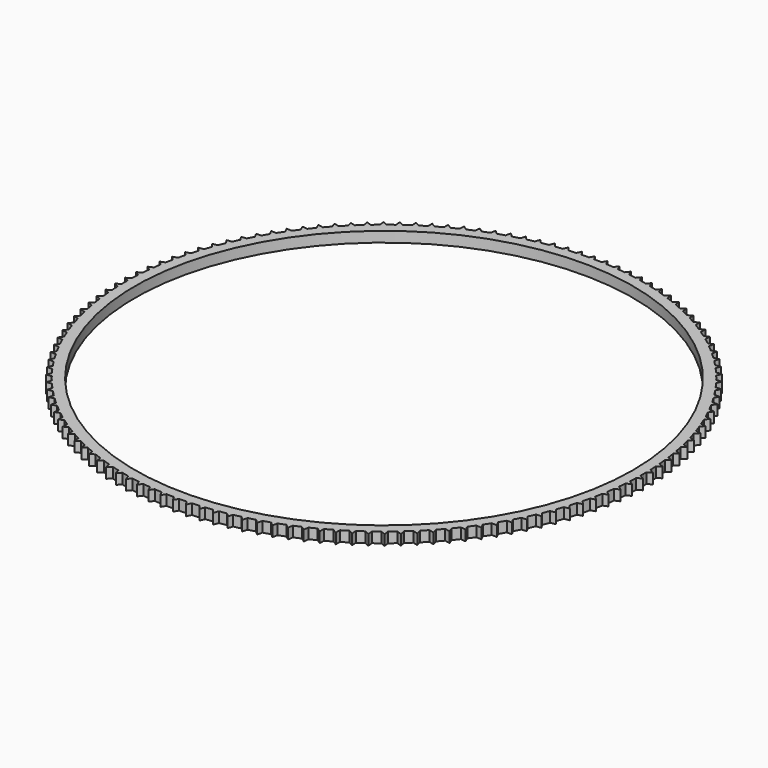
from build123d import *

# Parameters (mm, degrees)
F0_R     = 24
F1_DEPTH = 1


with BuildPart() as f1:
    # F0 (on Top) → F1 (new body)
    with BuildSketch(Plane.XY):
        with BuildLine():
            ThreePointArc((24.997492, -0.354136), (24.999373, -0.177073), (25, 0))
            ThreePointArc((25, 0), (24.999373, 0.177073), (24.997492, 0.354136))
            ThreePointArc((24.997492, 0.354136), (24.9927, 0.604094), (24.98541, 0.85399))
            ThreePointArc((24.98541, 0.85399), (24.970806, 1.207834), (24.951191, 1.561436))
            ThreePointArc((24.951191, 1.561436), (24.934329, 1.81087), (24.914973, 2.060123))
            ThreePointArc((24.914973, 2.060123), (24.883291, 2.412848), (24.846615, 2.765089))
            ThreePointArc((24.846615, 2.765089), (24.817722, 3.013417), (24.786347, 3.261444))
            ThreePointArc((24.786347, 3.261444), (24.73766, 3.612226), (24.684009, 3.962284))
            ThreePointArc((24.684009, 3.962284), (24.643152, 4.208926), (24.599831, 4.455147))
            ThreePointArc((24.599831, 4.455147), (24.534253, 4.803168), (24.463752, 5.150225))
            ThreePointArc((24.463752, 5.150225), (24.411027, 5.394605), (24.35586, 5.638445))
            ThreePointArc((24.35586, 5.638445), (24.273545, 5.982892), (24.18636, 6.326137))
            ThreePointArc((24.18636, 6.326137), (24.121889, 6.567684), (24.055006, 6.808575))
            ThreePointArc((24.055006, 6.808575), (23.956146, 7.148642), (23.852478, 7.487274))
            ThreePointArc((23.852478, 7.487274), (23.776413, 7.725425), (23.69797, 7.962803))
            ThreePointArc((23.69797, 7.962803), (23.582795, 8.297696), (23.462888, 8.630925))
            ThreePointArc((23.462888, 8.630925), (23.375406, 8.865122), (23.285586, 9.098433))
            ThreePointArc((23.285586, 9.098433), (23.154366, 9.427371), (23.0185, 9.754417))
            ThreePointArc((23.0185, 9.754417), (22.919805, 9.984115), (22.818818, 10.212813))
            ThreePointArc((22.818818, 10.212813), (22.671859, 10.535028), (22.520351, 10.855128))
            ThreePointArc((22.520351, 10.855128), (22.410673, 11.079789), (22.298755, 11.303341))
            ThreePointArc((22.298755, 11.303341), (22.136401, 11.618079), (21.969604, 11.930486))
            ThreePointArc((21.969604, 11.930486), (21.849201, 12.149585), (21.726612, 12.36747))
            ThreePointArc((21.726612, 12.36747), (21.549242, 12.673996), (21.367547, 12.97798))
            ThreePointArc((21.367547, 12.97798), (21.236698, 13.191006), (21.103726, 13.402714))
            ThreePointArc((21.103726, 13.402714), (20.911753, 13.700313), (20.715584, 13.995163))
            ThreePointArc((20.715584, 13.995163), (20.574597, 14.201619), (20.431552, 14.406655))
            ThreePointArc((20.431552, 14.406655), (20.225425, 14.694631), (20.015239, 14.979659))
            ThreePointArc((20.015239, 14.979659), (19.864442, 15.179063), (19.711658, 15.376948))
            ThreePointArc((19.711658, 15.376948), (19.491859, 15.65463), (19.268148, 15.92917))
            ThreePointArc((19.268148, 15.92917), (19.107893, 16.121055), (18.945727, 16.311328))
            ThreePointArc((18.945727, 16.311328), (18.712769, 16.578066), (18.476055, 16.841478))
            ThreePointArc((18.476055, 16.841478), (18.306717, 17.025396), (18.135547, 17.207612))
            ThreePointArc((18.135547, 17.207612), (17.889974, 17.462784), (17.640811, 17.714452))
            ThreePointArc((17.640811, 17.714452), (17.462784, 17.889974), (17.283011, 18.063707))
            ThreePointArc((17.283011, 18.063707), (17.025396, 18.306717), (16.764365, 18.546052))
            ThreePointArc((16.764365, 18.546052), (16.578066, 18.712769), (16.39011, 18.877614))
            ThreePointArc((16.39011, 18.877614), (16.121055, 19.107893), (15.848766, 19.334338))
            ThreePointArc((15.848766, 19.334338), (15.65463, 19.491859), (15.458929, 19.647431))
            ThreePointArc((15.458929, 19.647431), (15.179063, 19.864442), (14.896151, 20.077467))
            ThreePointArc((14.896151, 20.077467), (14.694631, 20.225425), (14.491642, 20.37136))
            ThreePointArc((14.491642, 20.37136), (14.201619, 20.574597), (13.908745, 20.773705))
            ThreePointArc((13.908745, 20.773705), (13.700313, 20.911753), (13.49051, 21.047711))
            ThreePointArc((13.49051, 21.047711), (13.191006, 21.236698), (12.888855, 21.421424))
            ThreePointArc((12.888855, 21.421424), (12.673996, 21.549242), (12.45787, 21.674904))
            ThreePointArc((12.45787, 21.674904), (12.149585, 21.849201), (11.838862, 22.019113))
            ThreePointArc((11.838862, 22.019113), (11.618079, 22.136401), (11.396134, 22.251475))
            ThreePointArc((11.396134, 22.251475), (11.079789, 22.410673), (10.76122, 22.565375))
            ThreePointArc((10.76122, 22.565375), (10.535028, 22.671859), (10.307782, 22.776076))
            ThreePointArc((10.307782, 22.776076), (9.984115, 22.919805), (9.658443, 23.058935))
            ThreePointArc((9.658443, 23.058935), (9.427371, 23.154366), (9.195356, 23.247482))
            ThreePointArc((9.195356, 23.247482), (8.865122, 23.375406), (8.533109, 23.498639))
            ThreePointArc((8.533109, 23.498639), (8.297696, 23.582795), (8.061453, 23.664593))
            ThreePointArc((8.061453, 23.664593), (7.725425, 23.776413), (7.387846, 23.883461))
            ThreePointArc((7.387846, 23.883461), (7.148642, 23.956146), (6.908723, 24.026434))
            ThreePointArc((6.908723, 24.026434), (6.567684, 24.121889), (6.225328, 24.212503))
            ThreePointArc((6.225328, 24.212503), (5.982892, 24.273545), (5.739857, 24.332161))
            ThreePointArc((5.739857, 24.332161), (5.394605, 24.411027), (5.04827, 24.484995))
            ThreePointArc((5.04827, 24.484995), (4.803168, 24.534253), (4.557585, 24.581058))
            ThreePointArc((4.557585, 24.581058), (4.208926, 24.643152), (3.859422, 24.700301))
            ThreePointArc((3.859422, 24.700301), (3.612226, 24.73766), (3.364669, 24.772545))
            ThreePointArc((3.364669, 24.772545), (3.013417, 24.817722), (2.66156, 24.857918))
            ThreePointArc((2.66156, 24.857918), (2.412848, 24.883291), (2.163894, 24.906175))
            ThreePointArc((2.163894, 24.906175), (1.81087, 24.934329), (1.457482, 24.957479))
            ThreePointArc((1.457482, 24.957479), (1.207834, 24.970806), (0.958066, 24.981635))
            ThreePointArc((0.958066, 24.981635), (0.604094, 24.9927), (0.25, 24.99875))
            ThreePointArc((0.25, 24.99875), (0, 25), (-0.25, 24.99875))
            ThreePointArc((-0.25, 24.99875), (-0.604094, 24.9927), (-0.958066, 24.981635))
            ThreePointArc((-0.958066, 24.981635), (-1.207834, 24.970806), (-1.457482, 24.957479))
            ThreePointArc((-1.457482, 24.957479), (-1.81087, 24.934329), (-2.163894, 24.906175))
            ThreePointArc((-2.163894, 24.906175), (-2.412848, 24.883291), (-2.66156, 24.857918))
            ThreePointArc((-2.66156, 24.857918), (-3.013417, 24.817722), (-3.364669, 24.772545))
            ThreePointArc((-3.364669, 24.772545), (-3.612226, 24.73766), (-3.859422, 24.700301))
            ThreePointArc((-3.859422, 24.700301), (-4.208926, 24.643152), (-4.557585, 24.581058))
            ThreePointArc((-4.557585, 24.581058), (-4.803168, 24.534253), (-5.04827, 24.484995))
            ThreePointArc((-5.04827, 24.484995), (-5.394605, 24.411027), (-5.739857, 24.332161))
            ThreePointArc((-5.739857, 24.332161), (-5.982892, 24.273545), (-6.225328, 24.212503))
            ThreePointArc((-6.225328, 24.212503), (-6.567684, 24.121889), (-6.908723, 24.026434))
            ThreePointArc((-6.908723, 24.026434), (-7.148642, 23.956146), (-7.387846, 23.883461))
            ThreePointArc((-7.387846, 23.883461), (-7.725425, 23.776413), (-8.061453, 23.664593))
            ThreePointArc((-8.061453, 23.664593), (-8.297696, 23.582795), (-8.533109, 23.498639))
            ThreePointArc((-8.533109, 23.498639), (-8.865122, 23.375406), (-9.195356, 23.247482))
            ThreePointArc((-9.195356, 23.247482), (-9.427371, 23.154366), (-9.658443, 23.058935))
            ThreePointArc((-9.658443, 23.058935), (-9.984115, 22.919805), (-10.307782, 22.776076))
            ThreePointArc((-10.307782, 22.776076), (-10.535028, 22.671859), (-10.76122, 22.565375))
            ThreePointArc((-10.76122, 22.565375), (-11.079789, 22.410673), (-11.396134, 22.251475))
            ThreePointArc((-11.396134, 22.251475), (-11.618079, 22.136401), (-11.838862, 22.019113))
            ThreePointArc((-11.838862, 22.019113), (-12.149585, 21.849201), (-12.45787, 21.674904))
            ThreePointArc((-12.45787, 21.674904), (-12.673996, 21.549242), (-12.888855, 21.421424))
            ThreePointArc((-12.888855, 21.421424), (-13.191006, 21.236698), (-13.49051, 21.047711))
            ThreePointArc((-13.49051, 21.047711), (-13.700313, 20.911753), (-13.908745, 20.773705))
            ThreePointArc((-13.908745, 20.773705), (-14.201619, 20.574597), (-14.491642, 20.37136))
            ThreePointArc((-14.491642, 20.37136), (-14.694631, 20.225425), (-14.896151, 20.077467))
            ThreePointArc((-14.896151, 20.077467), (-15.179063, 19.864442), (-15.458929, 19.647431))
            ThreePointArc((-15.458929, 19.647431), (-15.65463, 19.491859), (-15.848766, 19.334338))
            ThreePointArc((-15.848766, 19.334338), (-16.121055, 19.107893), (-16.39011, 18.877614))
            ThreePointArc((-16.39011, 18.877614), (-16.578066, 18.712769), (-16.764365, 18.546052))
            ThreePointArc((-16.764365, 18.546052), (-17.025396, 18.306717), (-17.283011, 18.063707))
            ThreePointArc((-17.283011, 18.063707), (-17.462784, 17.889974), (-17.640811, 17.714452))
            ThreePointArc((-17.640811, 17.714452), (-17.889974, 17.462784), (-18.135547, 17.207612))
            ThreePointArc((-18.135547, 17.207612), (-18.306717, 17.025396), (-18.476055, 16.841478))
            ThreePointArc((-18.476055, 16.841478), (-18.712769, 16.578066), (-18.945727, 16.311328))
            ThreePointArc((-18.945727, 16.311328), (-19.107893, 16.121055), (-19.268148, 15.92917))
            ThreePointArc((-19.268148, 15.92917), (-19.491859, 15.65463), (-19.711658, 15.376948))
            ThreePointArc((-19.711658, 15.376948), (-19.864442, 15.179063), (-20.015239, 14.979659))
            ThreePointArc((-20.015239, 14.979659), (-20.225425, 14.694631), (-20.431552, 14.406655))
            ThreePointArc((-20.431552, 14.406655), (-20.574597, 14.201619), (-20.715584, 13.995163))
            ThreePointArc((-20.715584, 13.995163), (-20.911753, 13.700313), (-21.103726, 13.402714))
            ThreePointArc((-21.103726, 13.402714), (-21.236698, 13.191006), (-21.367547, 12.97798))
            ThreePointArc((-21.367547, 12.97798), (-21.549242, 12.673996), (-21.726612, 12.36747))
            ThreePointArc((-21.726612, 12.36747), (-21.849201, 12.149585), (-21.969604, 11.930486))
            ThreePointArc((-21.969604, 11.930486), (-22.136401, 11.618079), (-22.298755, 11.303341))
            ThreePointArc((-22.298755, 11.303341), (-22.410673, 11.079789), (-22.520351, 10.855128))
            ThreePointArc((-22.520351, 10.855128), (-22.671859, 10.535028), (-22.818818, 10.212813))
            ThreePointArc((-22.818818, 10.212813), (-22.919805, 9.984115), (-23.0185, 9.754417))
            ThreePointArc((-23.0185, 9.754417), (-23.154366, 9.427371), (-23.285586, 9.098433))
            ThreePointArc((-23.285586, 9.098433), (-23.375406, 8.865122), (-23.462888, 8.630925))
            ThreePointArc((-23.462888, 8.630925), (-23.582795, 8.297696), (-23.69797, 7.962803))
            ThreePointArc((-23.69797, 7.962803), (-23.776413, 7.725425), (-23.852478, 7.487274))
            ThreePointArc((-23.852478, 7.487274), (-23.956146, 7.148642), (-24.055006, 6.808575))
            ThreePointArc((-24.055006, 6.808575), (-24.121889, 6.567684), (-24.18636, 6.326137))
            ThreePointArc((-24.18636, 6.326137), (-24.273545, 5.982892), (-24.35586, 5.638445))
            ThreePointArc((-24.35586, 5.638445), (-24.411027, 5.394605), (-24.463752, 5.150225))
            ThreePointArc((-24.463752, 5.150225), (-24.534253, 4.803168), (-24.599831, 4.455147))
            ThreePointArc((-24.599831, 4.455147), (-24.643152, 4.208926), (-24.684009, 3.962284))
            ThreePointArc((-24.684009, 3.962284), (-24.73766, 3.612226), (-24.786347, 3.261444))
            ThreePointArc((-24.786347, 3.261444), (-24.817722, 3.013417), (-24.846615, 2.765089))
            ThreePointArc((-24.846615, 2.765089), (-24.883291, 2.412848), (-24.914973, 2.060123))
            ThreePointArc((-24.914973, 2.060123), (-24.934329, 1.81087), (-24.951191, 1.561436))
            ThreePointArc((-24.951191, 1.561436), (-24.970806, 1.207834), (-24.98541, 0.85399))
            ThreePointArc((-24.98541, 0.85399), (-24.9927, 0.604094), (-24.997492, 0.354136))
            ThreePointArc((-24.997492, 0.354136), (-25, 0), (-24.997492, -0.354136))
            ThreePointArc((-24.997492, -0.354136), (-24.9927, -0.604094), (-24.98541, -0.85399))
            ThreePointArc((-24.98541, -0.85399), (-24.970806, -1.207834), (-24.951191, -1.561436))
            ThreePointArc((-24.951191, -1.561436), (-24.934329, -1.81087), (-24.914973, -2.060123))
            ThreePointArc((-24.914973, -2.060123), (-24.883291, -2.412848), (-24.846615, -2.765089))
            ThreePointArc((-24.846615, -2.765089), (-24.817722, -3.013417), (-24.786347, -3.261444))
            ThreePointArc((-24.786347, -3.261444), (-24.73766, -3.612226), (-24.684009, -3.962284))
            ThreePointArc((-24.684009, -3.962284), (-24.643152, -4.208926), (-24.599831, -4.455147))
            ThreePointArc((-24.599831, -4.455147), (-24.534253, -4.803168), (-24.463752, -5.150225))
            ThreePointArc((-24.463752, -5.150225), (-24.411027, -5.394605), (-24.35586, -5.638445))
            ThreePointArc((-24.35586, -5.638445), (-24.273545, -5.982892), (-24.18636, -6.326137))
            ThreePointArc((-24.18636, -6.326137), (-24.121889, -6.567684), (-24.055006, -6.808575))
            ThreePointArc((-24.055006, -6.808575), (-23.956146, -7.148642), (-23.852478, -7.487274))
            ThreePointArc((-23.852478, -7.487274), (-23.776413, -7.725425), (-23.69797, -7.962803))
            ThreePointArc((-23.69797, -7.962803), (-23.582795, -8.297696), (-23.462888, -8.630925))
            ThreePointArc((-23.462888, -8.630925), (-23.375406, -8.865122), (-23.285586, -9.098433))
            ThreePointArc((-23.285586, -9.098433), (-23.154366, -9.427371), (-23.0185, -9.754417))
            ThreePointArc((-23.0185, -9.754417), (-22.919805, -9.984115), (-22.818818, -10.212813))
            ThreePointArc((-22.818818, -10.212813), (-22.671859, -10.535028), (-22.520351, -10.855128))
            ThreePointArc((-22.520351, -10.855128), (-22.410673, -11.079789), (-22.298755, -11.303341))
            ThreePointArc((-22.298755, -11.303341), (-22.136401, -11.618079), (-21.969604, -11.930486))
            ThreePointArc((-21.969604, -11.930486), (-21.849201, -12.149585), (-21.726612, -12.36747))
            ThreePointArc((-21.726612, -12.36747), (-21.549242, -12.673996), (-21.367547, -12.97798))
            ThreePointArc((-21.367547, -12.97798), (-21.236698, -13.191006), (-21.103726, -13.402714))
            ThreePointArc((-21.103726, -13.402714), (-20.911753, -13.700313), (-20.715584, -13.995163))
            ThreePointArc((-20.715584, -13.995163), (-20.574597, -14.201619), (-20.431552, -14.406655))
            ThreePointArc((-20.431552, -14.406655), (-20.225425, -14.694631), (-20.015239, -14.979659))
            ThreePointArc((-20.015239, -14.979659), (-19.864442, -15.179063), (-19.711658, -15.376948))
            ThreePointArc((-19.711658, -15.376948), (-19.491859, -15.65463), (-19.268148, -15.92917))
            ThreePointArc((-19.268148, -15.92917), (-19.107893, -16.121055), (-18.945727, -16.311328))
            ThreePointArc((-18.945727, -16.311328), (-18.712769, -16.578066), (-18.476055, -16.841478))
            ThreePointArc((-18.476055, -16.841478), (-18.306717, -17.025396), (-18.135547, -17.207612))
            ThreePointArc((-18.135547, -17.207612), (-17.889974, -17.462784), (-17.640811, -17.714452))
            ThreePointArc((-17.640811, -17.714452), (-17.462784, -17.889974), (-17.283011, -18.063707))
            ThreePointArc((-17.283011, -18.063707), (-17.025396, -18.306717), (-16.764365, -18.546052))
            ThreePointArc((-16.764365, -18.546052), (-16.578066, -18.712769), (-16.39011, -18.877614))
            ThreePointArc((-16.39011, -18.877614), (-16.121055, -19.107893), (-15.848766, -19.334338))
            ThreePointArc((-15.848766, -19.334338), (-15.65463, -19.491859), (-15.458929, -19.647431))
            ThreePointArc((-15.458929, -19.647431), (-15.179063, -19.864442), (-14.896151, -20.077467))
            ThreePointArc((-14.896151, -20.077467), (-14.694631, -20.225425), (-14.491642, -20.37136))
            ThreePointArc((-14.491642, -20.37136), (-14.201619, -20.574597), (-13.908745, -20.773705))
            ThreePointArc((-13.908745, -20.773705), (-13.700313, -20.911753), (-13.49051, -21.047711))
            ThreePointArc((-13.49051, -21.047711), (-13.191006, -21.236698), (-12.888855, -21.421424))
            ThreePointArc((-12.888855, -21.421424), (-12.673996, -21.549242), (-12.45787, -21.674904))
            ThreePointArc((-12.45787, -21.674904), (-12.149585, -21.849201), (-11.838862, -22.019113))
            ThreePointArc((-11.838862, -22.019113), (-11.618079, -22.136401), (-11.396134, -22.251475))
            ThreePointArc((-11.396134, -22.251475), (-11.079789, -22.410673), (-10.76122, -22.565375))
            ThreePointArc((-10.76122, -22.565375), (-10.535028, -22.671859), (-10.307782, -22.776076))
            ThreePointArc((-10.307782, -22.776076), (-9.984115, -22.919805), (-9.658443, -23.058935))
            ThreePointArc((-9.658443, -23.058935), (-9.427371, -23.154366), (-9.195356, -23.247482))
            ThreePointArc((-9.195356, -23.247482), (-8.865122, -23.375406), (-8.533109, -23.498639))
            ThreePointArc((-8.533109, -23.498639), (-8.297696, -23.582795), (-8.061453, -23.664593))
            ThreePointArc((-8.061453, -23.664593), (-7.725425, -23.776413), (-7.387846, -23.883461))
            ThreePointArc((-7.387846, -23.883461), (-7.148642, -23.956146), (-6.908723, -24.026434))
            ThreePointArc((-6.908723, -24.026434), (-6.567684, -24.121889), (-6.225328, -24.212503))
            ThreePointArc((-6.225328, -24.212503), (-5.982892, -24.273545), (-5.739857, -24.332161))
            ThreePointArc((-5.739857, -24.332161), (-5.394605, -24.411027), (-5.04827, -24.484995))
            ThreePointArc((-5.04827, -24.484995), (-4.803168, -24.534253), (-4.557585, -24.581058))
            ThreePointArc((-4.557585, -24.581058), (-4.208926, -24.643152), (-3.859422, -24.700301))
            ThreePointArc((-3.859422, -24.700301), (-3.612226, -24.73766), (-3.364669, -24.772545))
            ThreePointArc((-3.364669, -24.772545), (-3.013417, -24.817722), (-2.66156, -24.857918))
            ThreePointArc((-2.66156, -24.857918), (-2.412848, -24.883291), (-2.163894, -24.906175))
            ThreePointArc((-2.163894, -24.906175), (-1.81087, -24.934329), (-1.457482, -24.957479))
            ThreePointArc((-1.457482, -24.957479), (-1.207834, -24.970806), (-0.958066, -24.981635))
            ThreePointArc((-0.958066, -24.981635), (-0.604094, -24.9927), (-0.25, -24.99875))
            ThreePointArc((-0.25, -24.99875), (0, -25), (0.25, -24.99875))
            ThreePointArc((0.25, -24.99875), (0.604094, -24.9927), (0.958066, -24.981635))
            ThreePointArc((0.958066, -24.981635), (1.207834, -24.970806), (1.457482, -24.957479))
            ThreePointArc((1.457482, -24.957479), (1.81087, -24.934329), (2.163894, -24.906175))
            ThreePointArc((2.163894, -24.906175), (2.412848, -24.883291), (2.66156, -24.857918))
            ThreePointArc((2.66156, -24.857918), (3.013417, -24.817722), (3.364669, -24.772545))
            ThreePointArc((3.364669, -24.772545), (3.612226, -24.73766), (3.859422, -24.700301))
            ThreePointArc((3.859422, -24.700301), (4.208926, -24.643152), (4.557585, -24.581058))
            ThreePointArc((4.557585, -24.581058), (4.803168, -24.534253), (5.04827, -24.484995))
            ThreePointArc((5.04827, -24.484995), (5.394605, -24.411027), (5.739857, -24.332161))
            ThreePointArc((5.739857, -24.332161), (5.982892, -24.273545), (6.225328, -24.212503))
            ThreePointArc((6.225328, -24.212503), (6.567684, -24.121889), (6.908723, -24.026434))
            ThreePointArc((6.908723, -24.026434), (7.148642, -23.956146), (7.387846, -23.883461))
            ThreePointArc((7.387846, -23.883461), (7.725425, -23.776413), (8.061453, -23.664593))
            ThreePointArc((8.061453, -23.664593), (8.297696, -23.582795), (8.533109, -23.498639))
            ThreePointArc((8.533109, -23.498639), (8.865122, -23.375406), (9.195356, -23.247482))
            ThreePointArc((9.195356, -23.247482), (9.427371, -23.154366), (9.658443, -23.058935))
            ThreePointArc((9.658443, -23.058935), (9.984115, -22.919805), (10.307782, -22.776076))
            ThreePointArc((10.307782, -22.776076), (10.535028, -22.671859), (10.76122, -22.565375))
            ThreePointArc((10.76122, -22.565375), (11.079789, -22.410673), (11.396134, -22.251475))
            ThreePointArc((11.396134, -22.251475), (11.618079, -22.136401), (11.838862, -22.019113))
            ThreePointArc((11.838862, -22.019113), (12.149585, -21.849201), (12.45787, -21.674904))
            ThreePointArc((12.45787, -21.674904), (12.673996, -21.549242), (12.888855, -21.421424))
            ThreePointArc((12.888855, -21.421424), (13.191006, -21.236698), (13.49051, -21.047711))
            ThreePointArc((13.49051, -21.047711), (13.700313, -20.911753), (13.908745, -20.773705))
            ThreePointArc((13.908745, -20.773705), (14.201619, -20.574597), (14.491642, -20.37136))
            ThreePointArc((14.491642, -20.37136), (14.694631, -20.225425), (14.896151, -20.077467))
            ThreePointArc((14.896151, -20.077467), (15.179063, -19.864442), (15.458929, -19.647431))
            ThreePointArc((15.458929, -19.647431), (15.65463, -19.491859), (15.848766, -19.334338))
            ThreePointArc((15.848766, -19.334338), (16.121055, -19.107893), (16.39011, -18.877614))
            ThreePointArc((16.39011, -18.877614), (16.578066, -18.712769), (16.764365, -18.546052))
            ThreePointArc((16.764365, -18.546052), (17.025396, -18.306717), (17.283011, -18.063707))
            ThreePointArc((17.283011, -18.063707), (17.462784, -17.889974), (17.640811, -17.714452))
            ThreePointArc((17.640811, -17.714452), (17.889974, -17.462784), (18.135547, -17.207612))
            ThreePointArc((18.135547, -17.207612), (18.306717, -17.025396), (18.476055, -16.841478))
            ThreePointArc((18.476055, -16.841478), (18.712769, -16.578066), (18.945727, -16.311328))
            ThreePointArc((18.945727, -16.311328), (19.107893, -16.121055), (19.268148, -15.92917))
            ThreePointArc((19.268148, -15.92917), (19.491859, -15.65463), (19.711658, -15.376948))
            ThreePointArc((19.711658, -15.376948), (19.864442, -15.179063), (20.015239, -14.979659))
            ThreePointArc((20.015239, -14.979659), (20.225425, -14.694631), (20.431552, -14.406655))
            ThreePointArc((20.431552, -14.406655), (20.574597, -14.201619), (20.715584, -13.995163))
            ThreePointArc((20.715584, -13.995163), (20.911753, -13.700313), (21.103726, -13.402714))
            ThreePointArc((21.103726, -13.402714), (21.236698, -13.191006), (21.367547, -12.97798))
            ThreePointArc((21.367547, -12.97798), (21.549242, -12.673996), (21.726612, -12.36747))
            ThreePointArc((21.726612, -12.36747), (21.849201, -12.149585), (21.969604, -11.930486))
            ThreePointArc((21.969604, -11.930486), (22.136401, -11.618079), (22.298755, -11.303341))
            ThreePointArc((22.298755, -11.303341), (22.410673, -11.079789), (22.520351, -10.855128))
            ThreePointArc((22.520351, -10.855128), (22.671859, -10.535028), (22.818818, -10.212813))
            ThreePointArc((22.818818, -10.212813), (22.919805, -9.984115), (23.0185, -9.754417))
            ThreePointArc((23.0185, -9.754417), (23.154366, -9.427371), (23.285586, -9.098433))
            ThreePointArc((23.285586, -9.098433), (23.375406, -8.865122), (23.462888, -8.630925))
            ThreePointArc((23.462888, -8.630925), (23.582795, -8.297696), (23.69797, -7.962803))
            ThreePointArc((23.69797, -7.962803), (23.776413, -7.725425), (23.852478, -7.487274))
            ThreePointArc((23.852478, -7.487274), (23.956146, -7.148642), (24.055006, -6.808575))
            ThreePointArc((24.055006, -6.808575), (24.121889, -6.567684), (24.18636, -6.326137))
            ThreePointArc((24.18636, -6.326137), (24.273545, -5.982892), (24.35586, -5.638445))
            ThreePointArc((24.35586, -5.638445), (24.411027, -5.394605), (24.463752, -5.150225))
            ThreePointArc((24.463752, -5.150225), (24.534253, -4.803168), (24.599831, -4.455147))
            ThreePointArc((24.599831, -4.455147), (24.643152, -4.208926), (24.684009, -3.962284))
            ThreePointArc((24.684009, -3.962284), (24.73766, -3.612226), (24.786347, -3.261444))
            ThreePointArc((24.786347, -3.261444), (24.817722, -3.013417), (24.846615, -2.765089))
            ThreePointArc((24.846615, -2.765089), (24.883291, -2.412848), (24.914973, -2.060123))
            ThreePointArc((24.914973, -2.060123), (24.934329, -1.81087), (24.951191, -1.561436))
            ThreePointArc((24.951191, -1.561436), (24.970806, -1.207834), (24.98541, -0.85399))
            ThreePointArc((24.98541, -0.85399), (24.9927, -0.604094), (24.997492, -0.354136))
        make_face()
        Circle(F0_R, mode=Mode.SUBTRACT)
        with BuildLine():
            ThreePointArc((-20.015239, 14.979659), (-19.864442, 15.179063), (-19.711658, 15.376948))
            Line((-19.711658, 15.376948), (-20.207511, 15.441213))
            Line((-20.207511, 15.441213), (-20.015239, 14.979659))
        make_face()
        with BuildLine():
            ThreePointArc((14.491642, 20.37136), (14.694631, 20.225425), (14.896151, 20.077467))
            Line((14.896151, 20.077467), (14.948415, 20.574728))
            Line((14.948415, 20.574728), (14.491642, 20.37136))
        make_face()
        with BuildLine():
            Line((-16.864378, -19.035948), (-16.39011, -18.877614))
            ThreePointArc((-16.39011, -18.877614), (-16.578066, -18.712769), (-16.764365, -18.546052))
            Line((-16.764365, -18.546052), (-16.864378, -19.035948))
        make_face()
        with BuildLine():
            ThreePointArc((15.458929, 19.647431), (15.65463, 19.491859), (15.848766, 19.334338))
            Line((15.848766, 19.334338), (15.924993, 19.828493))
            Line((15.924993, 19.828493), (15.458929, 19.647431))
        make_face()
        with BuildLine():
            Line((17.764375, -18.198943), (17.640811, -17.714452))
            ThreePointArc((17.640811, -17.714452), (17.462784, -17.889974), (17.283011, -18.063707))
            Line((17.283011, -18.063707), (17.764375, -18.198943))
        make_face()
        with BuildLine():
            Line((-17.764375, -18.198943), (-17.283011, -18.063707))
            ThreePointArc((-17.283011, -18.063707), (-17.462784, -17.889974), (-17.640811, -17.714452))
            Line((-17.640811, -17.714452), (-17.764375, -18.198943))
        make_face()
        with BuildLine():
            Line((16.864378, -19.035948), (16.764365, -18.546052))
            ThreePointArc((16.764365, -18.546052), (16.578066, -18.712769), (16.39011, -18.877614))
            Line((16.39011, -18.877614), (16.864378, -19.035948))
        make_face()
        with BuildLine():
            ThreePointArc((-15.848766, 19.334338), (-15.65463, 19.491859), (-15.458929, 19.647431))
            Line((-15.458929, 19.647431), (-15.924993, 19.828493))
            Line((-15.924993, 19.828493), (-15.848766, 19.334338))
        make_face()
        with BuildLine():
            Line((13.936924, -21.27291), (13.908745, -20.773705))
            ThreePointArc((13.908745, -20.773705), (13.700313, -20.911753), (13.49051, -21.047711))
            Line((13.49051, -21.047711), (13.936924, -21.27291))
        make_face()
        with BuildLine():
            ThreePointArc((-14.896151, 20.077467), (-14.694631, 20.225425), (-14.491642, 20.37136))
            Line((-14.491642, 20.37136), (-14.948415, 20.574728))
            Line((-14.948415, 20.574728), (-14.896151, 20.077467))
        make_face()
        with BuildLine():
            Line((-13.936924, -21.27291), (-13.49051, -21.047711))
            ThreePointArc((-13.49051, -21.047711), (-13.700313, -20.911753), (-13.908745, -20.773705))
            Line((-13.908745, -20.773705), (-13.936924, -21.27291))
        make_face()
        with BuildLine():
            ThreePointArc((-21.969604, 11.930486), (-21.849201, 12.149585), (-21.726612, 12.36747))
            Line((-21.726612, 12.36747), (-22.226548, 12.359415))
            Line((-22.226548, 12.359415), (-21.969604, 11.930486))
        make_face()
        with BuildLine():
            ThreePointArc((19.711658, 15.376948), (19.864442, 15.179063), (20.015239, 14.979659))
            Line((20.015239, 14.979659), (20.207511, 15.441213))
            Line((20.207511, 15.441213), (19.711658, 15.376948))
        make_face()
        with BuildLine():
            ThreePointArc((21.726612, 12.36747), (21.849201, 12.149585), (21.969604, 11.930486))
            Line((21.969604, 11.930486), (22.226548, 12.359415))
            Line((22.226548, 12.359415), (21.726612, 12.36747))
        make_face()
        with BuildLine():
            Line((-24.187044, -7.858847), (-23.69797, -7.962803))
            ThreePointArc((-23.69797, -7.962803), (-23.776413, -7.725425), (-23.852478, -7.487274))
            Line((-23.852478, -7.487274), (-24.187044, -7.858847))
        make_face()
        with BuildLine():
            ThreePointArc((16.39011, 18.877614), (16.578066, 18.712769), (16.764365, 18.546052))
            Line((16.764365, 18.546052), (16.864378, 19.035948))
            Line((16.864378, 19.035948), (16.39011, 18.877614))
        make_face()
        with BuildLine():
            ThreePointArc((-16.764365, 18.546052), (-16.578066, 18.712769), (-16.39011, 18.877614))
            Line((-16.39011, 18.877614), (-16.864378, 19.035948))
            Line((-16.864378, 19.035948), (-16.764365, 18.546052))
        make_face()
        with BuildLine():
            Line((-22.226548, -12.359415), (-21.726612, -12.36747))
            ThreePointArc((-21.726612, -12.36747), (-21.849201, -12.149585), (-21.969604, -11.930486))
            Line((-21.969604, -11.930486), (-22.226548, -12.359415))
        make_face()
        with BuildLine():
            Line((24.187044, -7.858847), (23.852478, -7.487274))
            ThreePointArc((23.852478, -7.487274), (23.776413, -7.725425), (23.69797, -7.962803))
            Line((23.69797, -7.962803), (24.187044, -7.858847))
        make_face()
        with BuildLine():
            ThreePointArc((18.945727, 16.311328), (19.107893, 16.121055), (19.268148, 15.92917))
            Line((19.268148, 15.92917), (19.437896, 16.399474))
            Line((19.437896, 16.399474), (18.945727, 16.311328))
        make_face()
        with BuildLine():
            ThreePointArc((22.818818, 10.212813), (22.919805, 9.984115), (23.0185, 9.754417))
            Line((23.0185, 9.754417), (23.315642, 10.156545))
            Line((23.315642, 10.156545), (22.818818, 10.212813))
        make_face()
        with BuildLine():
            ThreePointArc((-8.533109, 23.498639), (-8.297696, 23.582795), (-8.061453, 23.664593))
            Line((-8.061453, 23.664593), (-8.441002, 23.990082))
            Line((-8.441002, 23.990082), (-8.533109, 23.498639))
        make_face()
        with BuildLine():
            ThreePointArc((10.307782, 22.776076), (10.535028, 22.671859), (10.76122, 22.565375))
            Line((10.76122, 22.565375), (10.716973, 23.063414))
            Line((10.716973, 23.063414), (10.307782, 22.776076))
        make_face()
        with BuildLine():
            Line((-11.818729, -22.518707), (-11.396134, -22.251475))
            ThreePointArc((-11.396134, -22.251475), (-11.618079, -22.136401), (-11.838862, -22.019113))
            Line((-11.838862, -22.019113), (-11.818729, -22.518707))
        make_face()
        with BuildLine():
            ThreePointArc((8.061453, 23.664593), (8.297696, 23.582795), (8.533109, 23.498639))
            Line((8.533109, 23.498639), (8.441002, 23.990082))
            Line((8.441002, 23.990082), (8.061453, 23.664593))
        make_face()
        with BuildLine():
            Line((-9.590187, -23.554254), (-9.195356, -23.247482))
            ThreePointArc((-9.195356, -23.247482), (-9.427371, -23.154366), (-9.658443, -23.058935))
            Line((-9.658443, -23.058935), (-9.590187, -23.554254))
        make_face()
        with BuildLine():
            Line((23.315642, -10.156545), (23.0185, -9.754417))
            ThreePointArc((23.0185, -9.754417), (22.919805, -9.984115), (22.818818, -10.212813))
            Line((22.818818, -10.212813), (23.315642, -10.156545))
        make_face()
        with BuildLine():
            Line((-23.315642, -10.156545), (-22.818818, -10.212813))
            ThreePointArc((-22.818818, -10.212813), (-22.919805, -9.984115), (-23.0185, -9.754417))
            Line((-23.0185, -9.754417), (-23.315642, -10.156545))
        make_face()
        with BuildLine():
            Line((19.437896, -16.399474), (19.268148, -15.92917))
            ThreePointArc((19.268148, -15.92917), (19.107893, -16.121055), (18.945727, -16.311328))
            Line((18.945727, -16.311328), (19.437896, -16.399474))
        make_face()
        with BuildLine():
            Line((18.622883, -17.319434), (18.476055, -16.841478))
            ThreePointArc((18.476055, -16.841478), (18.306717, -17.025396), (18.135547, -17.207612))
            Line((18.135547, -17.207612), (18.622883, -17.319434))
        make_face()
        with BuildLine():
            ThreePointArc((-17.640811, 17.714452), (-17.462784, 17.889974), (-17.283011, 18.063707))
            Line((-17.283011, 18.063707), (-17.764375, 18.198943))
            Line((-17.764375, 18.198943), (-17.640811, 17.714452))
        make_face()
        with BuildLine():
            Line((-3.674611, -25.164892), (-3.364669, -24.772545))
            ThreePointArc((-3.364669, -24.772545), (-3.612226, -24.73766), (-3.859422, -24.700301))
            Line((-3.859422, -24.700301), (-3.674611, -25.164892))
        make_face()
        with BuildLine():
            Line((-2.454519, -25.313038), (-2.163894, -24.906175))
            ThreePointArc((-2.163894, -24.906175), (-2.412848, -24.883291), (-2.66156, -24.857918))
            Line((-2.66156, -24.857918), (-2.454519, -25.313038))
        make_face()
        with BuildLine():
            Line((24.538486, -6.681112), (24.18636, -6.326137))
            ThreePointArc((24.18636, -6.326137), (24.121889, -6.567684), (24.055006, -6.808575))
            Line((24.055006, -6.808575), (24.538486, -6.681112))
        make_face()
        with BuildLine():
            ThreePointArc((-12.888855, 21.421424), (-12.673996, 21.549242), (-12.45787, 21.674904))
            Line((-12.45787, 21.674904), (-12.892883, 21.921408))
            Line((-12.892883, 21.921408), (-12.888855, 21.421424))
        make_face()
        with BuildLine():
            ThreePointArc((12.45787, 21.674904), (12.673996, 21.549242), (12.888855, 21.421424))
            Line((12.888855, 21.421424), (12.892883, 21.921408))
            Line((12.892883, 21.921408), (12.45787, 21.674904))
        make_face()
        with BuildLine():
            Line((20.92993, -14.446888), (20.715584, -13.995163))
            ThreePointArc((20.715584, -13.995163), (20.574597, -14.201619), (20.431552, -14.406655))
            Line((20.431552, -14.406655), (20.92993, -14.446888))
        make_face()
        with BuildLine():
            ThreePointArc((24.599831, 4.455147), (24.643152, 4.208926), (24.684009, 3.962284))
            Line((24.684009, 3.962284), (25.068752, 4.281616))
            Line((25.068752, 4.281616), (24.599831, 4.455147))
        make_face()
        with BuildLine():
            ThreePointArc((24.055006, 6.808575), (24.121889, 6.567684), (24.18636, 6.326137))
            Line((24.18636, 6.326137), (24.538486, 6.681112))
            Line((24.538486, 6.681112), (24.055006, 6.808575))
        make_face()
        with BuildLine():
            ThreePointArc((-23.0185, 9.754417), (-22.919805, 9.984115), (-22.818818, 10.212813))
            Line((-22.818818, 10.212813), (-23.315642, 10.156545))
            Line((-23.315642, 10.156545), (-23.0185, 9.754417))
        make_face()
        with BuildLine():
            Line((-14.948415, -20.574728), (-14.491642, -20.37136))
            ThreePointArc((-14.491642, -20.37136), (-14.694631, -20.225425), (-14.896151, -20.077467))
            Line((-14.896151, -20.077467), (-14.948415, -20.574728))
        make_face()
        with BuildLine():
            ThreePointArc((13.49051, 21.047711), (13.700313, 20.911753), (13.908745, 20.773705))
            Line((13.908745, 20.773705), (13.936924, 21.27291))
            Line((13.936924, 21.27291), (13.49051, 21.047711))
        make_face()
        with BuildLine():
            ThreePointArc((-3.859422, 24.700301), (-3.612226, 24.73766), (-3.364669, 24.772545))
            Line((-3.364669, 24.772545), (-3.674611, 25.164892))
            Line((-3.674611, 25.164892), (-3.859422, 24.700301))
        make_face()
        with BuildLine():
            Line((-1.228694, -25.402064), (-0.958066, -24.981635))
            ThreePointArc((-0.958066, -24.981635), (-1.207834, -24.970806), (-1.457482, -24.957479))
            Line((-1.457482, -24.957479), (-1.228694, -25.402064))
        make_face()
        with BuildLine():
            ThreePointArc((-24.846615, 2.765089), (-24.817722, 3.013417), (-24.786347, 3.261444))
            Line((-24.786347, 3.261444), (-25.246336, 3.06546))
            Line((-25.246336, 3.06546), (-24.846615, 2.765089))
        make_face()
        with BuildLine():
            Line((-20.207511, -15.441213), (-19.711658, -15.376948))
            ThreePointArc((-19.711658, -15.376948), (-19.864442, -15.179063), (-20.015239, -14.979659))
            Line((-20.015239, -14.979659), (-20.207511, -15.441213))
        make_face()
        with BuildLine():
            ThreePointArc((-24.684009, 3.962284), (-24.643152, 4.208926), (-24.599831, 4.455147))
            Line((-24.599831, 4.455147), (-25.068752, 4.281616))
            Line((-25.068752, 4.281616), (-24.684009, 3.962284))
        make_face()
        with BuildLine():
            Line((-19.437896, -16.399474), (-18.945727, -16.311328))
            ThreePointArc((-18.945727, -16.311328), (-19.107893, -16.121055), (-19.268148, -15.92917))
            Line((-19.268148, -15.92917), (-19.437896, -16.399474))
        make_face()
        with BuildLine():
            ThreePointArc((4.557585, 24.581058), (4.803168, 24.534253), (5.04827, 24.484995))
            Line((5.04827, 24.484995), (4.886121, 24.957972))
            Line((4.886121, 24.957972), (4.557585, 24.581058))
        make_face()
        with BuildLine():
            Line((23.779111, -9.018227), (23.462888, -8.630925))
            ThreePointArc((23.462888, -8.630925), (23.375406, -8.865122), (23.285586, -9.098433))
            Line((23.285586, -9.098433), (23.779111, -9.018227))
        make_face()
        with BuildLine():
            ThreePointArc((24.786347, 3.261444), (24.817722, 3.013417), (24.846615, 2.765089))
            Line((24.846615, 2.765089), (25.246336, 3.06546))
            Line((25.246336, 3.06546), (24.786347, 3.261444))
        make_face()
        with BuildLine():
            Line((9.590187, -23.554254), (9.658443, -23.058935))
            ThreePointArc((9.658443, -23.058935), (9.427371, -23.154366), (9.195356, -23.247482))
            Line((9.195356, -23.247482), (9.590187, -23.554254))
        make_face()
        with BuildLine():
            ThreePointArc((-5.04827, 24.484995), (-4.803168, 24.534253), (-4.557585, 24.581058))
            Line((-4.557585, 24.581058), (-4.886121, 24.957972))
            Line((-4.886121, 24.957972), (-5.04827, 24.484995))
        make_face()
        with BuildLine():
            Line((2.454519, -25.313038), (2.66156, -24.857918))
            ThreePointArc((2.66156, -24.857918), (2.412848, -24.883291), (2.163894, -24.906175))
            Line((2.163894, -24.906175), (2.454519, -25.313038))
        make_face()
        with BuildLine():
            Line((1.228694, -25.402064), (1.457482, -24.957479))
            ThreePointArc((1.457482, -24.957479), (1.207834, -24.970806), (0.958066, -24.981635))
            Line((0.958066, -24.981635), (1.228694, -25.402064))
        make_face()
        with BuildLine():
            ThreePointArc((2.163894, 24.906175), (2.412848, 24.883291), (2.66156, 24.857918))
            Line((2.66156, 24.857918), (2.454519, 25.313038))
            Line((2.454519, 25.313038), (2.163894, 24.906175))
        make_face()
        with BuildLine():
            ThreePointArc((3.364669, 24.772545), (3.612226, 24.73766), (3.859422, 24.700301))
            Line((3.859422, 24.700301), (3.674611, 25.164892))
            Line((3.674611, 25.164892), (3.364669, 24.772545))
        make_face()
        with BuildLine():
            Line((3.674611, -25.164892), (3.859422, -24.700301))
            ThreePointArc((3.859422, -24.700301), (3.612226, -24.73766), (3.364669, -24.772545))
            Line((3.364669, -24.772545), (3.674611, -25.164892))
        make_face()
        with BuildLine():
            Line((-25.246336, -3.06546), (-24.786347, -3.261444))
            ThreePointArc((-24.786347, -3.261444), (-24.817722, -3.013417), (-24.846615, -2.765089))
            Line((-24.846615, -2.765089), (-25.246336, -3.06546))
        make_face()
        with BuildLine():
            Line((25.424337, -0.614527), (24.997492, -0.354136))
            ThreePointArc((24.997492, -0.354136), (24.9927, -0.604094), (24.98541, -0.85399))
            Line((24.98541, -0.85399), (25.424337, -0.614527))
        make_face()
        with BuildLine():
            Line((25.246336, -3.06546), (24.846615, -2.765089))
            ThreePointArc((24.846615, -2.765089), (24.817722, -3.013417), (24.786347, -3.261444))
            Line((24.786347, -3.261444), (25.246336, -3.06546))
        make_face()
        with BuildLine():
            ThreePointArc((-24.951191, 1.561436), (-24.934329, 1.81087), (-24.914973, 2.060123))
            Line((-24.914973, 2.060123), (-25.364957, 1.842145))
            Line((-25.364957, 1.842145), (-24.951191, 1.561436))
        make_face()
        with BuildLine():
            Line((6.086219, -24.692762), (6.225328, -24.212503))
            ThreePointArc((6.225328, -24.212503), (5.982892, -24.273545), (5.739857, -24.332161))
            Line((5.739857, -24.332161), (6.086219, -24.692762))
        make_face()
        with BuildLine():
            ThreePointArc((24.98541, 0.85399), (24.9927, 0.604094), (24.997492, 0.354136))
            Line((24.997492, 0.354136), (25.424337, 0.614527))
            Line((25.424337, 0.614527), (24.98541, 0.85399))
        make_face()
        with BuildLine():
            ThreePointArc((24.914973, 2.060123), (24.934329, 1.81087), (24.951191, 1.561436))
            Line((24.951191, 1.561436), (25.364957, 1.842145))
            Line((25.364957, 1.842145), (24.914973, 2.060123))
        make_face()
        with BuildLine():
            Line((-25.364957, -1.842145), (-24.914973, -2.060123))
            ThreePointArc((-24.914973, -2.060123), (-24.934329, -1.81087), (-24.951191, -1.561436))
            Line((-24.951191, -1.561436), (-25.364957, -1.842145))
        make_face()
        with BuildLine():
            Line((25.364957, -1.842145), (24.951191, -1.561436))
            ThreePointArc((24.951191, -1.561436), (24.934329, -1.81087), (24.914973, -2.060123))
            Line((24.914973, -2.060123), (25.364957, -1.842145))
        make_face()
        with BuildLine():
            ThreePointArc((-24.463752, 5.150225), (-24.411027, 5.394605), (-24.35586, 5.638445))
            Line((-24.35586, 5.638445), (-24.832618, 5.487772))
            Line((-24.832618, 5.487772), (-24.463752, 5.150225))
        make_face()
        with BuildLine():
            ThreePointArc((-24.18636, 6.326137), (-24.121889, 6.567684), (-24.055006, 6.808575))
            Line((-24.055006, 6.808575), (-24.538486, 6.681112))
            Line((-24.538486, 6.681112), (-24.18636, 6.326137))
        make_face()
        with BuildLine():
            ThreePointArc((-23.852478, 7.487274), (-23.776413, 7.725425), (-23.69797, 7.962803))
            Line((-23.69797, 7.962803), (-24.187044, 7.858847))
            Line((-24.187044, 7.858847), (-23.852478, 7.487274))
        make_face()
        with BuildLine():
            ThreePointArc((-23.462888, 8.630925), (-23.375406, 8.865122), (-23.285586, 9.098433))
            Line((-23.285586, 9.098433), (-23.779111, 9.018227))
            Line((-23.779111, 9.018227), (-23.462888, 8.630925))
        make_face()
        with BuildLine():
            ThreePointArc((-22.520351, 10.855128), (-22.410673, 11.079789), (-22.298755, 11.303341))
            Line((-22.298755, 11.303341), (-22.797717, 11.271142))
            Line((-22.797717, 11.271142), (-22.520351, 10.855128))
        make_face()
        with BuildLine():
            ThreePointArc((-21.367547, 12.97798), (-21.236698, 13.191006), (-21.103726, 13.402714))
            Line((-21.103726, 13.402714), (-21.603467, 13.418821))
            Line((-21.603467, 13.418821), (-21.367547, 12.97798))
        make_face()
        with BuildLine():
            ThreePointArc((-24.997492, 0.354136), (-24.9927, 0.604094), (-24.98541, 0.85399))
            Line((-24.98541, 0.85399), (-25.424337, 0.614527))
            Line((-25.424337, 0.614527), (-24.997492, 0.354136))
        make_face()
        with BuildLine():
            Line((-25.424337, -0.614527), (-24.98541, -0.85399))
            ThreePointArc((-24.98541, -0.85399), (-24.9927, -0.604094), (-24.997492, -0.354136))
            Line((-24.997492, -0.354136), (-25.424337, -0.614527))
        make_face()
        with BuildLine():
            Line((-25.068752, -4.281616), (-24.599831, -4.455147))
            ThreePointArc((-24.599831, -4.455147), (-24.643152, -4.208926), (-24.684009, -3.962284))
            Line((-24.684009, -3.962284), (-25.068752, -4.281616))
        make_face()
        with BuildLine():
            Line((-24.832618, -5.487772), (-24.35586, -5.638445))
            ThreePointArc((-24.35586, -5.638445), (-24.411027, -5.394605), (-24.463752, -5.150225))
            Line((-24.463752, -5.150225), (-24.832618, -5.487772))
        make_face()
        with BuildLine():
            Line((-24.538486, -6.681112), (-24.055006, -6.808575))
            ThreePointArc((-24.055006, -6.808575), (-24.121889, -6.567684), (-24.18636, -6.326137))
            Line((-24.18636, -6.326137), (-24.538486, -6.681112))
        make_face()
        with BuildLine():
            ThreePointArc((-20.715584, 13.995163), (-20.574597, 14.201619), (-20.431552, 14.406655))
            Line((-20.431552, 14.406655), (-20.92993, 14.446888))
            Line((-20.92993, 14.446888), (-20.715584, 13.995163))
        make_face()
        with BuildLine():
            ThreePointArc((-19.268148, 15.92917), (-19.107893, 16.121055), (-18.945727, 16.311328))
            Line((-18.945727, 16.311328), (-19.437896, 16.399474))
            Line((-19.437896, 16.399474), (-19.268148, 15.92917))
        make_face()
        with BuildLine():
            ThreePointArc((-18.476055, 16.841478), (-18.306717, 17.025396), (-18.135547, 17.207612))
            Line((-18.135547, 17.207612), (-18.622883, 17.319434))
            Line((-18.622883, 17.319434), (-18.476055, 16.841478))
        make_face()
        with BuildLine():
            ThreePointArc((-13.908745, 20.773705), (-13.700313, 20.911753), (-13.49051, 21.047711))
            Line((-13.49051, 21.047711), (-13.936924, 21.27291))
            Line((-13.936924, 21.27291), (-13.908745, 20.773705))
        make_face()
        with BuildLine():
            ThreePointArc((-11.838862, 22.019113), (-11.618079, 22.136401), (-11.396134, 22.251475))
            Line((-11.396134, 22.251475), (-11.818729, 22.518707))
            Line((-11.818729, 22.518707), (-11.838862, 22.019113))
        make_face()
        with BuildLine():
            ThreePointArc((-10.76122, 22.565375), (-10.535028, 22.671859), (-10.307782, 22.776076))
            Line((-10.307782, 22.776076), (-10.716973, 23.063414))
            Line((-10.716973, 23.063414), (-10.76122, 22.565375))
        make_face()
        with BuildLine():
            ThreePointArc((-9.658443, 23.058935), (-9.427371, 23.154366), (-9.195356, 23.247482))
            Line((-9.195356, 23.247482), (-9.590187, 23.554254))
            Line((-9.590187, 23.554254), (-9.658443, 23.058935))
        make_face()
        with BuildLine():
            ThreePointArc((-7.387846, 23.883461), (-7.148642, 23.956146), (-6.908723, 24.026434))
            Line((-6.908723, 24.026434), (-7.272103, 24.369881))
            Line((-7.272103, 24.369881), (-7.387846, 23.883461))
        make_face()
        with BuildLine():
            ThreePointArc((-6.225328, 24.212503), (-5.982892, 24.273545), (-5.739857, 24.332161))
            Line((-5.739857, 24.332161), (-6.086219, 24.692762))
            Line((-6.086219, 24.692762), (-6.225328, 24.212503))
        make_face()
        with BuildLine():
            ThreePointArc((-2.66156, 24.857918), (-2.412848, 24.883291), (-2.163894, 24.906175))
            Line((-2.163894, 24.906175), (-2.454519, 25.313038))
            Line((-2.454519, 25.313038), (-2.66156, 24.857918))
        make_face()
        with BuildLine():
            ThreePointArc((-1.457482, 24.957479), (-1.207834, 24.970806), (-0.958066, 24.981635))
            Line((-0.958066, 24.981635), (-1.228694, 25.402064))
            Line((-1.228694, 25.402064), (-1.457482, 24.957479))
        make_face()
        with BuildLine():
            ThreePointArc((-0.25, 24.99875), (0, 25), (0.25, 24.99875))
            Line((0.25, 24.99875), (0, 25.431763))
            Line((0, 25.431763), (-0.25, 24.99875))
        make_face()
        with BuildLine():
            ThreePointArc((0.958066, 24.981635), (1.207834, 24.970806), (1.457482, 24.957479))
            Line((1.457482, 24.957479), (1.228694, 25.402064))
            Line((1.228694, 25.402064), (0.958066, 24.981635))
        make_face()
        with BuildLine():
            ThreePointArc((5.739857, 24.332161), (5.982892, 24.273545), (6.225328, 24.212503))
            Line((6.225328, 24.212503), (6.086219, 24.692762))
            Line((6.086219, 24.692762), (5.739857, 24.332161))
        make_face()
        with BuildLine():
            ThreePointArc((6.908723, 24.026434), (7.148642, 23.956146), (7.387846, 23.883461))
            Line((7.387846, 23.883461), (7.272103, 24.369881))
            Line((7.272103, 24.369881), (6.908723, 24.026434))
        make_face()
        with BuildLine():
            ThreePointArc((9.195356, 23.247482), (9.427371, 23.154366), (9.658443, 23.058935))
            Line((9.658443, 23.058935), (9.590187, 23.554254))
            Line((9.590187, 23.554254), (9.195356, 23.247482))
        make_face()
        with BuildLine():
            ThreePointArc((11.396134, 22.251475), (11.618079, 22.136401), (11.838862, 22.019113))
            Line((11.838862, 22.019113), (11.818729, 22.518707))
            Line((11.818729, 22.518707), (11.396134, 22.251475))
        make_face()
        with BuildLine():
            ThreePointArc((17.283011, 18.063707), (17.462784, 17.889974), (17.640811, 17.714452))
            Line((17.640811, 17.714452), (17.764375, 18.198943))
            Line((17.764375, 18.198943), (17.283011, 18.063707))
        make_face()
        with BuildLine():
            ThreePointArc((18.135547, 17.207612), (18.306717, 17.025396), (18.476055, 16.841478))
            Line((18.476055, 16.841478), (18.622883, 17.319434))
            Line((18.622883, 17.319434), (18.135547, 17.207612))
        make_face()
        with BuildLine():
            ThreePointArc((20.431552, 14.406655), (20.574597, 14.201619), (20.715584, 13.995163))
            Line((20.715584, 13.995163), (20.92993, 14.446888))
            Line((20.92993, 14.446888), (20.431552, 14.406655))
        make_face()
        with BuildLine():
            ThreePointArc((21.103726, 13.402714), (21.236698, 13.191006), (21.367547, 12.97798))
            Line((21.367547, 12.97798), (21.603467, 13.418821))
            Line((21.603467, 13.418821), (21.103726, 13.402714))
        make_face()
        with BuildLine():
            ThreePointArc((22.298755, 11.303341), (22.410673, 11.079789), (22.520351, 10.855128))
            Line((22.520351, 10.855128), (22.797717, 11.271142))
            Line((22.797717, 11.271142), (22.298755, 11.303341))
        make_face()
        with BuildLine():
            ThreePointArc((23.285586, 9.098433), (23.375406, 8.865122), (23.462888, 8.630925))
            Line((23.462888, 8.630925), (23.779111, 9.018227))
            Line((23.779111, 9.018227), (23.285586, 9.098433))
        make_face()
        with BuildLine():
            ThreePointArc((23.69797, 7.962803), (23.776413, 7.725425), (23.852478, 7.487274))
            Line((23.852478, 7.487274), (24.187044, 7.858847))
            Line((24.187044, 7.858847), (23.69797, 7.962803))
        make_face()
        with BuildLine():
            ThreePointArc((24.35586, 5.638445), (24.411027, 5.394605), (24.463752, 5.150225))
            Line((24.463752, 5.150225), (24.832618, 5.487772))
            Line((24.832618, 5.487772), (24.35586, 5.638445))
        make_face()
        with BuildLine():
            Line((25.068752, -4.281616), (24.684009, -3.962284))
            ThreePointArc((24.684009, -3.962284), (24.643152, -4.208926), (24.599831, -4.455147))
            Line((24.599831, -4.455147), (25.068752, -4.281616))
        make_face()
        with BuildLine():
            Line((24.832618, -5.487772), (24.463752, -5.150225))
            ThreePointArc((24.463752, -5.150225), (24.411027, -5.394605), (24.35586, -5.638445))
            Line((24.35586, -5.638445), (24.832618, -5.487772))
        make_face()
        with BuildLine():
            Line((22.797717, -11.271142), (22.520351, -10.855128))
            ThreePointArc((22.520351, -10.855128), (22.410673, -11.079789), (22.298755, -11.303341))
            Line((22.298755, -11.303341), (22.797717, -11.271142))
        make_face()
        with BuildLine():
            Line((22.226548, -12.359415), (21.969604, -11.930486))
            ThreePointArc((21.969604, -11.930486), (21.849201, -12.149585), (21.726612, -12.36747))
            Line((21.726612, -12.36747), (22.226548, -12.359415))
        make_face()
        with BuildLine():
            Line((21.603467, -13.418821), (21.367547, -12.97798))
            ThreePointArc((21.367547, -12.97798), (21.236698, -13.191006), (21.103726, -13.402714))
            Line((21.103726, -13.402714), (21.603467, -13.418821))
        make_face()
        with BuildLine():
            Line((20.207511, -15.441213), (20.015239, -14.979659))
            ThreePointArc((20.015239, -14.979659), (19.864442, -15.179063), (19.711658, -15.376948))
            Line((19.711658, -15.376948), (20.207511, -15.441213))
        make_face()
        with BuildLine():
            Line((15.924993, -19.828493), (15.848766, -19.334338))
            ThreePointArc((15.848766, -19.334338), (15.65463, -19.491859), (15.458929, -19.647431))
            Line((15.458929, -19.647431), (15.924993, -19.828493))
        make_face()
        with BuildLine():
            Line((14.948415, -20.574728), (14.896151, -20.077467))
            ThreePointArc((14.896151, -20.077467), (14.694631, -20.225425), (14.491642, -20.37136))
            Line((14.491642, -20.37136), (14.948415, -20.574728))
        make_face()
        with BuildLine():
            Line((12.892883, -21.921408), (12.888855, -21.421424))
            ThreePointArc((12.888855, -21.421424), (12.673996, -21.549242), (12.45787, -21.674904))
            Line((12.45787, -21.674904), (12.892883, -21.921408))
        make_face()
        with BuildLine():
            Line((11.818729, -22.518707), (11.838862, -22.019113))
            ThreePointArc((11.838862, -22.019113), (11.618079, -22.136401), (11.396134, -22.251475))
            Line((11.396134, -22.251475), (11.818729, -22.518707))
        make_face()
        with BuildLine():
            Line((10.716973, -23.063414), (10.76122, -22.565375))
            ThreePointArc((10.76122, -22.565375), (10.535028, -22.671859), (10.307782, -22.776076))
            Line((10.307782, -22.776076), (10.716973, -23.063414))
        make_face()
        with BuildLine():
            Line((8.441002, -23.990082), (8.533109, -23.498639))
            ThreePointArc((8.533109, -23.498639), (8.297696, -23.582795), (8.061453, -23.664593))
            Line((8.061453, -23.664593), (8.441002, -23.990082))
        make_face()
        with BuildLine():
            Line((7.272103, -24.369881), (7.387846, -23.883461))
            ThreePointArc((7.387846, -23.883461), (7.148642, -23.956146), (6.908723, -24.026434))
            Line((6.908723, -24.026434), (7.272103, -24.369881))
        make_face()
        with BuildLine():
            Line((4.886121, -24.957972), (5.04827, -24.484995))
            ThreePointArc((5.04827, -24.484995), (4.803168, -24.534253), (4.557585, -24.581058))
            Line((4.557585, -24.581058), (4.886121, -24.957972))
        make_face()
        with BuildLine():
            Line((0, -25.431763), (0.25, -24.99875))
            ThreePointArc((0.25, -24.99875), (0, -25), (-0.25, -24.99875))
            Line((-0.25, -24.99875), (0, -25.431763))
        make_face()
        with BuildLine():
            Line((-23.779111, -9.018227), (-23.285586, -9.098433))
            ThreePointArc((-23.285586, -9.098433), (-23.375406, -8.865122), (-23.462888, -8.630925))
            Line((-23.462888, -8.630925), (-23.779111, -9.018227))
        make_face()
        with BuildLine():
            Line((-22.797717, -11.271142), (-22.298755, -11.303341))
            ThreePointArc((-22.298755, -11.303341), (-22.410673, -11.079789), (-22.520351, -10.855128))
            Line((-22.520351, -10.855128), (-22.797717, -11.271142))
        make_face()
        with BuildLine():
            Line((-21.603467, -13.418821), (-21.103726, -13.402714))
            ThreePointArc((-21.103726, -13.402714), (-21.236698, -13.191006), (-21.367547, -12.97798))
            Line((-21.367547, -12.97798), (-21.603467, -13.418821))
        make_face()
        with BuildLine():
            Line((-20.92993, -14.446888), (-20.431552, -14.406655))
            ThreePointArc((-20.431552, -14.406655), (-20.574597, -14.201619), (-20.715584, -13.995163))
            Line((-20.715584, -13.995163), (-20.92993, -14.446888))
        make_face()
        with BuildLine():
            Line((-18.622883, -17.319434), (-18.135547, -17.207612))
            ThreePointArc((-18.135547, -17.207612), (-18.306717, -17.025396), (-18.476055, -16.841478))
            Line((-18.476055, -16.841478), (-18.622883, -17.319434))
        make_face()
        with BuildLine():
            Line((-15.924993, -19.828493), (-15.458929, -19.647431))
            ThreePointArc((-15.458929, -19.647431), (-15.65463, -19.491859), (-15.848766, -19.334338))
            Line((-15.848766, -19.334338), (-15.924993, -19.828493))
        make_face()
        with BuildLine():
            Line((-10.716973, -23.063414), (-10.307782, -22.776076))
            ThreePointArc((-10.307782, -22.776076), (-10.535028, -22.671859), (-10.76122, -22.565375))
            Line((-10.76122, -22.565375), (-10.716973, -23.063414))
        make_face()
        with BuildLine():
            Line((-12.892883, -21.921408), (-12.45787, -21.674904))
            ThreePointArc((-12.45787, -21.674904), (-12.673996, -21.549242), (-12.888855, -21.421424))
            Line((-12.888855, -21.421424), (-12.892883, -21.921408))
        make_face()
        with BuildLine():
            Line((-8.441002, -23.990082), (-8.061453, -23.664593))
            ThreePointArc((-8.061453, -23.664593), (-8.297696, -23.582795), (-8.533109, -23.498639))
            Line((-8.533109, -23.498639), (-8.441002, -23.990082))
        make_face()
        with BuildLine():
            Line((-7.272103, -24.369881), (-6.908723, -24.026434))
            ThreePointArc((-6.908723, -24.026434), (-7.148642, -23.956146), (-7.387846, -23.883461))
            Line((-7.387846, -23.883461), (-7.272103, -24.369881))
        make_face()
        with BuildLine():
            Line((-6.086219, -24.692762), (-5.739857, -24.332161))
            ThreePointArc((-5.739857, -24.332161), (-5.982892, -24.273545), (-6.225328, -24.212503))
            Line((-6.225328, -24.212503), (-6.086219, -24.692762))
        make_face()
        with BuildLine():
            Line((-4.886121, -24.957972), (-4.557585, -24.581058))
            ThreePointArc((-4.557585, -24.581058), (-4.803168, -24.534253), (-5.04827, -24.484995))
            Line((-5.04827, -24.484995), (-4.886121, -24.957972))
        make_face()
    extrude(amount=F1_DEPTH)


solid = f1.part
